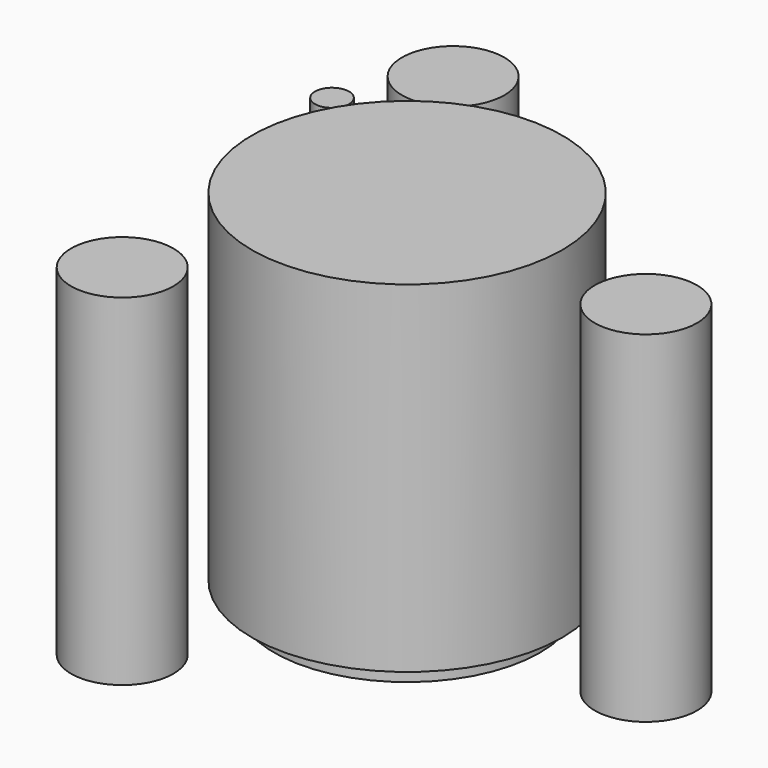
from build123d import *

# Parameters (mm, degrees)
CYLINDER055_R     = 0.5
CYLINDER055_DEPTH = 10
CYLINDER027_R     = 4.55
CYLINDER027_DEPTH = 10
CYLINDER026_R     = 3.9
CYLINDER026_DEPTH = 10
CYLINDER024_R     = 1.5
CYLINDER024_DEPTH = 10
ARRAY_COUNT       = 3


with BuildPart() as array012:
    # Cylinder055 → Cylinder055 (new body)
    with BuildSketch(Plane(origin=(-5, 3.5, 0), x_dir=(1, 0, 0), z_dir=(0, 0, 1))):
        Circle(CYLINDER055_R)
    extrude(amount=CYLINDER055_DEPTH)


with BuildPart() as mountplatelip:
    # Cylinder027 → Cylinder027 (new body)
    with BuildSketch(Plane.XY.offset(0.6)):
        Circle(CYLINDER027_R)
    extrude(amount=CYLINDER027_DEPTH)


with BuildPart() as mountplateinnerhole:
    # Cylinder026 → Cylinder026 (new body)
    with BuildSketch(Plane.XY):
        Circle(CYLINDER026_R)
    extrude(amount=CYLINDER026_DEPTH)


with BuildPart() as fusion014:
    # Cylinder024 → Cylinder024 (new body)
    with BuildSketch(Plane(origin=(7, 0, 0), x_dir=(1, 0, 0), z_dir=(0, 0, 1))):
        Circle(CYLINDER024_R)
    extrude(amount=CYLINDER024_DEPTH)

    # Array: Fusion014 ×3 about axis
    array_axis = Axis((0, 0, 0), (0, 0, 1))


with BuildPart() as fusion014_1:
    add(fusion014.part)
    for i in range(1, ARRAY_COUNT):
        add(fusion014.part.rotate(array_axis, i * 360 / ARRAY_COUNT))

    # Fusion012: union MountPlateLip, MountPlateInnerHole
    add(mountplatelip.part)
    add(mountplateinnerhole.part)

    # Fusion014: union Array012
    add(array012.part)


solid = fusion014_1.part
